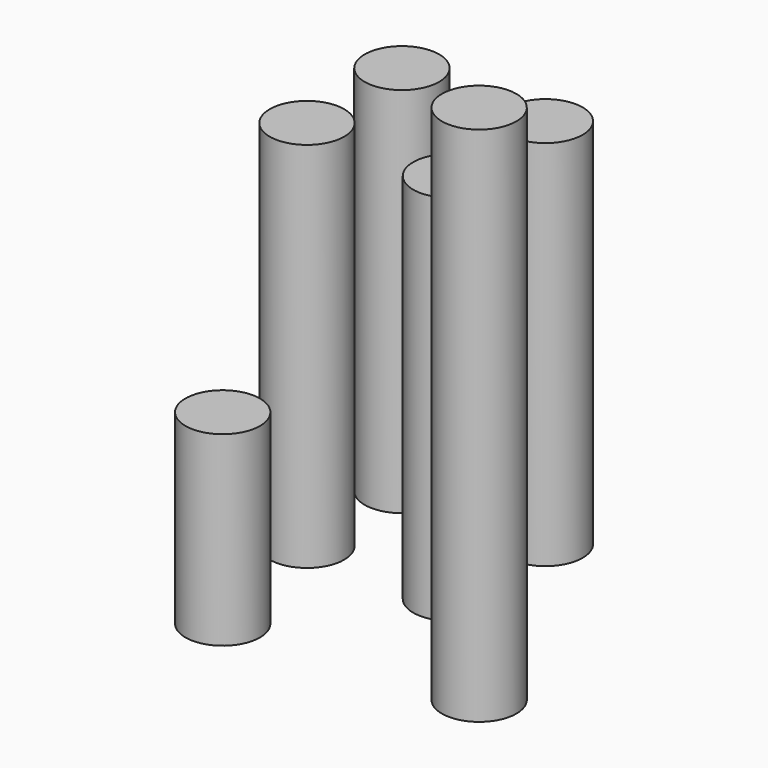
from build123d import *

# Parameters (mm, degrees)
F0_R     = 6.35
F1_DEPTH = 63.5
F2_DEPTH = 63.5
F3_DEPTH = 31.75
F4_DEPTH = 88.9


with BuildPart() as f1:
    # F0 (on Top) → F1 (new body)
    with BuildSketch(Plane.XY):
        with Locations((-131.299391, 7.182677)):
            Circle(F0_R)
    extrude(amount=F1_DEPTH)


with BuildPart() as f2:
    # F0 (on Top) → F2 (new body)
    with BuildSketch(Plane.XY):
        with Locations((-106.83988, 7.182677)):
            Circle(F0_R)
        with Locations((-131.299391, -13.054369)):
            Circle(F0_R)
        with Locations((-106.83988, -13.054369)):
            Circle(F0_R)
    extrude(amount=F2_DEPTH)


with BuildPart() as f3:
    # F0 (on Top) → F3 (new body)
    with BuildSketch(Plane.XY):
        with Locations((-126.055405, -37.57111)):
            Circle(F0_R)
    extrude(amount=F3_DEPTH)


with BuildPart() as f4:
    # F0 (on Top) → F4 (new body)
    with BuildSketch(Plane.XY):
        with Locations((-85.676961, -33.389963)):
            Circle(F0_R)
    extrude(amount=F4_DEPTH)


solid = Compound([f1.part, f2.part, f3.part, f4.part])
